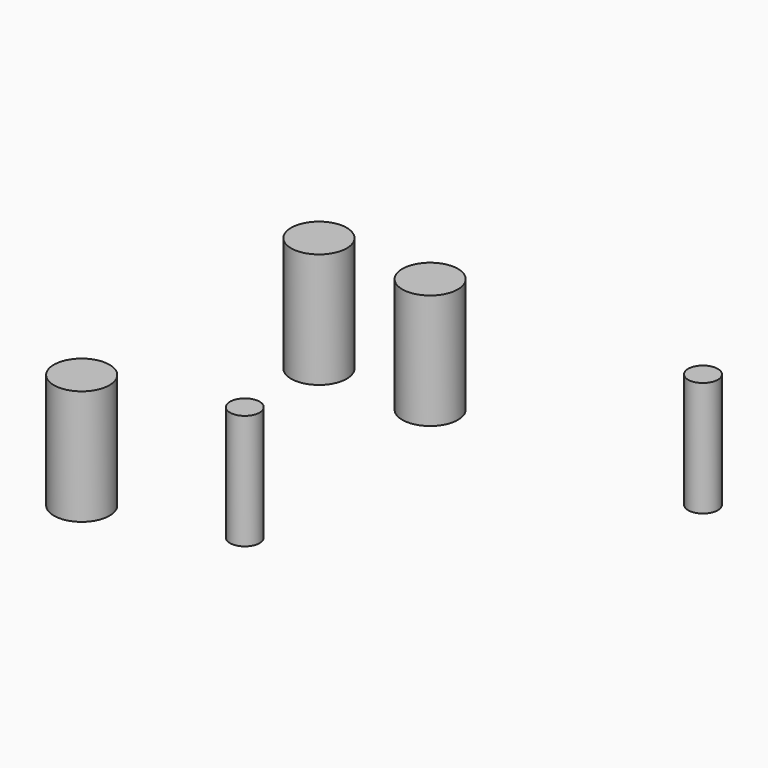
from build123d import *

# Parameters (mm, degrees)
F0_R     = 0.75
F0_R_2   = 0.4
F1_DEPTH = 3.1
F3_ANGLE = 180


with BuildPart() as f1:
    # F0 (on Top) → F1 (new body)
    with BuildSketch(Plane.XY):
        with Locations((-3.24, -2.96)):
            Circle(F0_R)
        with Locations((-3.24, 5.04)):
            Circle(F0_R)
        with Locations((-0.24, -2.96)):
            Circle(F0_R)
        with Locations((0.36, 4.04)):
            Circle(F0_R_2)
        with Locations((6.96, -3.16)):
            Circle(F0_R_2)
    extrude(amount=F1_DEPTH)


with BuildPart() as f1_1:
    # F3: moved
    add(f1.part.rotate(Axis((-3.804473, 0, 0), (-1, 0, 0)), F3_ANGLE))


solid = f1_1.part
